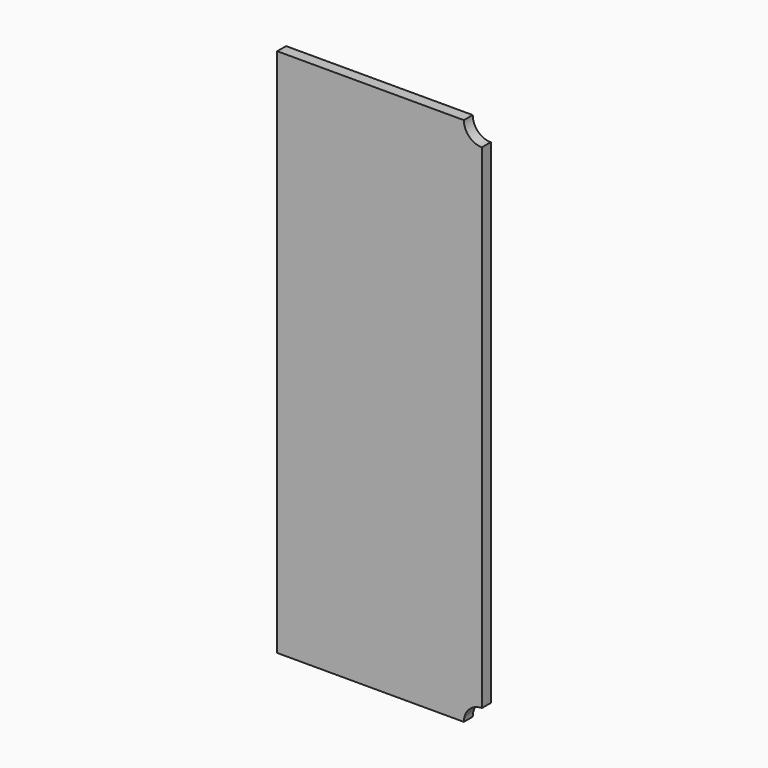
from build123d import *

# Parameters (mm, degrees)
F1_DEPTH = 5.842


with BuildPart() as f1:
    # F0 (on Front) → F1 (new body)
    with BuildSketch(Plane.XZ):
        with BuildLine():
            Line((98.425, 279.4), (0, 279.4))
            Line((0, 279.4), (0, 0))
            Line((0, 0), (98.425, 0))
            ThreePointArc((98.425, 0), (101.214808, 6.735192), (107.95, 9.525))
            Line((107.95, 9.525), (107.95, 269.875))
            ThreePointArc((107.95, 269.875), (101.214808, 272.664808), (98.425, 279.4))
        make_face()
    extrude(amount=F1_DEPTH)


solid = f1.part
